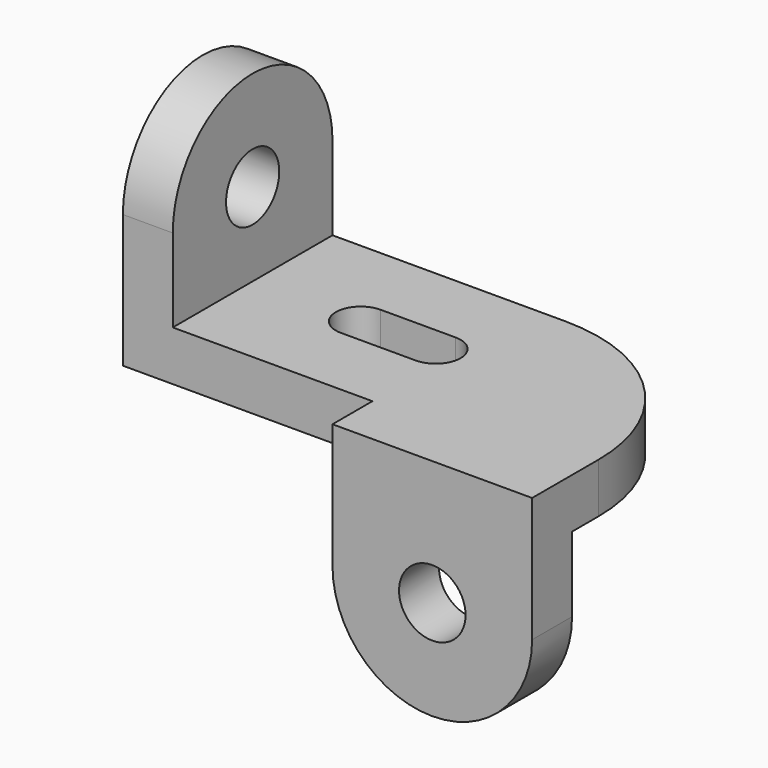
from build123d import *

# Parameters (mm, degrees)
F0_W      = 121.92
F0_H      = 60.96
F0_W_2    = 15.24
F1_DEPTH  = 15.24
F2_DEPTH  = 25.4
F4_DEPTH  = 15.24
F5_DEPTH  = 15.241
F6_W      = 60.96
F6_H      = 15.24
F7_DEPTH  = 15.24
F8_R      = 50.8
F9_W      = 22.86
F9_H      = 15.24
F10_DEPTH = 68.581


with BuildPart() as f1:
    # F0 (on Top) → F1 (new body)
    with BuildSketch(Plane.XY):
        with Locations((7.62, 0)):
            Rectangle(F0_W, F0_H)
        with Locations((-60.96, 0)):
            Rectangle(F0_W_2, F0_H)
    extrude(amount=-F1_DEPTH)

    # F0 (on Top) → F2 (join)
    with BuildSketch(Plane.XY):
        with Locations((-60.96, 0)):
            Rectangle(F0_W_2, F0_H)
    extrude(amount=F2_DEPTH)

    # F3 (on face) → F4 (join)
    with BuildSketch(Plane.YZ.offset(-53.34)):
        with BuildLine():
            Line((10.16, 25.4), (30.48, 25.4))
            ThreePointArc((30.48, 25.4), (0, 55.88), (-30.48, 25.4))
            Line((-30.48, 25.4), (-10.16, 25.4))
            ThreePointArc((-10.16, 25.4), (0, 35.56), (10.16, 25.4))
        make_face()
    extrude(amount=-F4_DEPTH)

    # F3 (on face) → F5 (cut, through all)
    with BuildSketch(Plane.YZ.offset(-53.34)):
        with BuildLine():
            ThreePointArc((-10.16, 25.4), (0, 15.24), (10.16, 25.4))
            Line((10.16, 25.4), (-10.16, 25.4))
        make_face()
        with BuildLine():
            Line((-10.16, 25.4), (10.16, 25.4))
            ThreePointArc((10.16, 25.4), (0, 35.56), (-10.16, 25.4))
        make_face()
    extrude(amount=-F5_DEPTH, mode=Mode.SUBTRACT)

    # F6 (on face) → F7 (join)
    with BuildSketch(Plane.XZ.offset(30.48)):
        with Locations((38.1, -7.62)):
            Rectangle(F6_W, F6_H)
        with BuildLine():
            Line((68.58, -38.1), (68.58, -15.24))
            Line((68.58, -15.24), (7.62, -15.24))
            Line((7.62, -15.24), (7.62, -38.1))
            Line((7.62, -38.1), (27.94, -38.1))
            ThreePointArc((27.94, -38.1), (38.1, -27.94), (48.26, -38.1))
            Line((48.26, -38.1), (68.58, -38.1))
        make_face()
        with BuildLine():
            ThreePointArc((7.62, -38.1), (38.1, -68.58), (68.58, -38.1))
            Line((68.58, -38.1), (48.26, -38.1))
            ThreePointArc((48.26, -38.1), (38.1, -48.26), (27.94, -38.1))
            Line((27.94, -38.1), (7.62, -38.1))
        make_face()
    extrude(amount=F7_DEPTH)

    # F8
    f8_edges = [f1.edges().sort_by_distance(p)[0] for p in [
        (68.58, 30.48, -7.62),
    ]]
    fillet(f8_edges, radius=F8_R)

    # F9 (on face) → F10 (cut, through all)
    with BuildSketch(Plane.XY):
        with Locations((-8.89, 0)):
            Rectangle(F9_W, F9_H)
        with BuildLine():
            Line((2.54, 7.62), (2.54, -7.62))
            ThreePointArc((2.54, -7.62), (10.16, 0), (2.54, 7.62))
        make_face()
        with BuildLine():
            ThreePointArc((-20.32, 7.62), (-27.94, 0), (-20.32, -7.62))
            Line((-20.32, -7.62), (-20.32, 7.62))
        make_face()
    extrude(amount=-F10_DEPTH, mode=Mode.SUBTRACT)


solid = f1.part
